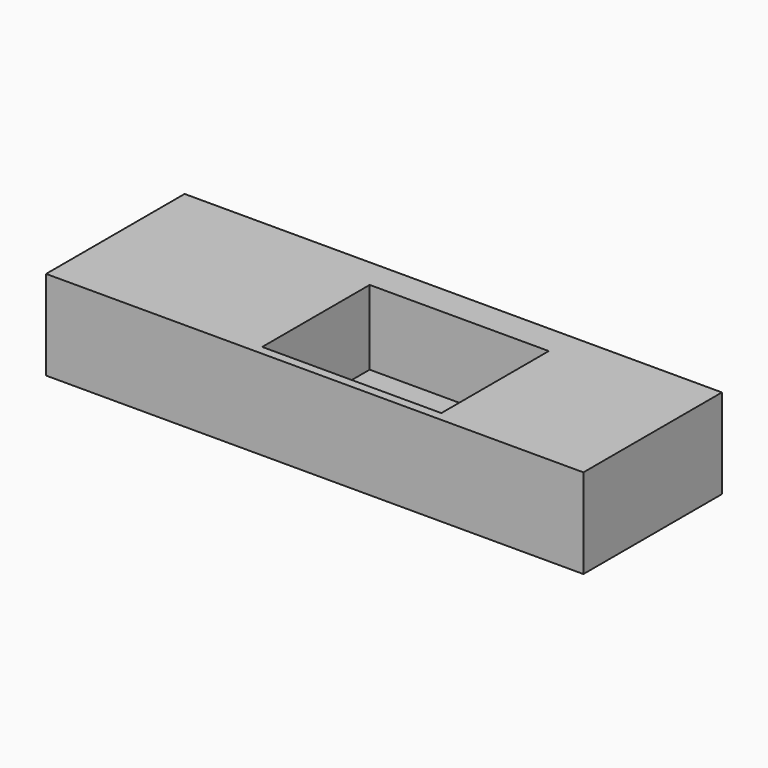
from build123d import *

# Parameters (mm, degrees)
F0_W     = 1800
F0_H     = 580
F0_W_2   = 600
F0_H_2   = 450
F1_DEPTH = 250
F2_W     = 580
F2_H     = 50
F3_DEPTH = 1800


with BuildPart() as f1:
    # F0 (on Top) → F1 (new body)
    with BuildSketch(Plane.XY):
        Rectangle(F0_W, F0_H)
        with Locations((100, -35)):
            Rectangle(F0_W_2, F0_H_2, mode=Mode.SUBTRACT)
    extrude(amount=F1_DEPTH)

    # F2 (on face) → F3 (join)
    with BuildSketch(Plane.YZ.offset(900)):
        with Locations((0, -25)):
            Rectangle(F2_W, F2_H)
    extrude(amount=-F3_DEPTH)


solid = f1.part
